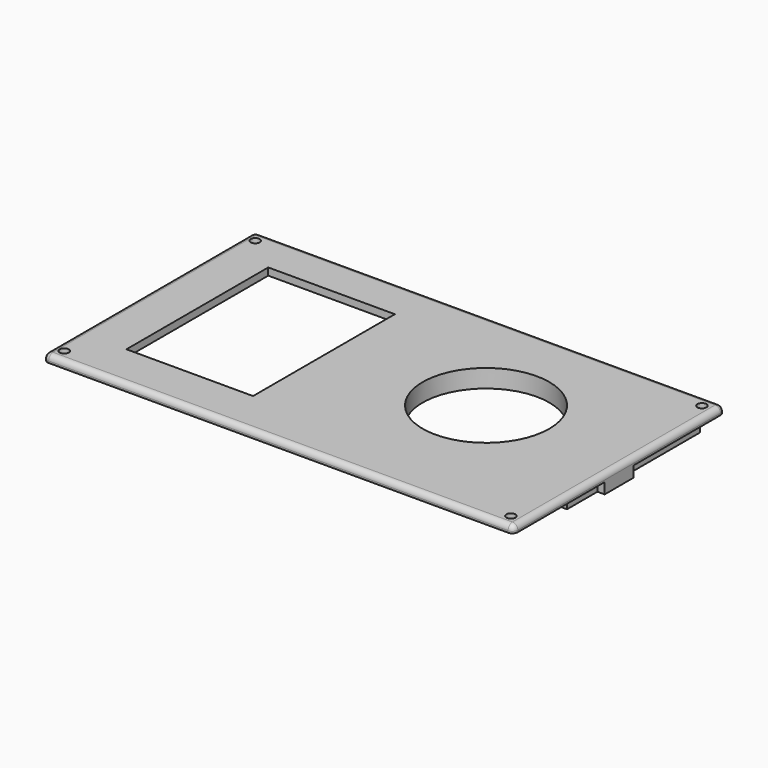
from build123d import *

# Parameters (mm, degrees)
BOX_W             = 130
BOX_H             = 73
BOX_DEPTH         = 2
BOX001_W          = 35
BOX001_H          = 49
BOX001_DEPTH      = 4
CYLINDER_R        = 17.5
CYLINDER_DEPTH    = 14
BOX002_W          = 63
BOX002_H          = 51
BOX002_DEPTH      = 3
CYLINDER001_R     = 17.5
CYLINDER001_DEPTH = 10
CYLINDER002_R     = 1.5
CYLINDER002_DEPTH = 3
CYLINDER003_R     = 1.5
CYLINDER003_DEPTH = 3
CYLINDER004_R     = 1.5
CYLINDER004_DEPTH = 3
CYLINDER005_R     = 1.5
CYLINDER005_DEPTH = 3
CYLINDER006_R     = 1.5
CYLINDER006_DEPTH = 3
CYLINDER007_R     = 1.5
CYLINDER007_DEPTH = 3
BOX003_W          = 2
BOX003_H          = 10
BOX003_DEPTH      = 3
BOX004_W          = 5
BOX004_H          = 5
BOX004_DEPTH      = 3
CYLINDER008_R     = 1.25
CYLINDER008_DEPTH = 2
CYLINDER009_R     = 1.25
CYLINDER009_DEPTH = 2
CYLINDER010_R     = 1.25
CYLINDER010_DEPTH = 2
CYLINDER011_R     = 1.25
CYLINDER011_DEPTH = 2
FILLET_R          = 1.5
FILLET001_R       = 1.5
FILLET002_R       = 1.5
FILLET003_R       = 1.5


with BuildPart() as part:
    # Box → Box (join)
    with BuildSketch(Plane.XY):
        with Locations((65, 36.5)):
            Rectangle(BOX_W, BOX_H)
    extrude(amount=BOX_DEPTH)

    # Box001 → Box001 (cut)
    with BuildSketch(Plane(origin=(13, 12.5, -2), x_dir=(1, 0, 0), z_dir=(0, 0, 1))):
        with Locations((17.5, 24.5)):
            Rectangle(BOX001_W, BOX001_H)
    extrude(amount=BOX001_DEPTH, mode=Mode.SUBTRACT)

    # Cylinder → Cylinder (cut)
    with BuildSketch(Plane(origin=(90, 40.5, -6), x_dir=(1, 0, 0), z_dir=(0, 0, 1))):
        Circle(CYLINDER_R)
    extrude(amount=CYLINDER_DEPTH, mode=Mode.SUBTRACT)

    # Box002 → Box002 (join)
    with BuildSketch(Plane(origin=(65, 21, -3), x_dir=(1, 0, 0), z_dir=(0, 0, 1))):
        with Locations((31.5, 25.5)):
            Rectangle(BOX002_W, BOX002_H)
    extrude(amount=BOX002_DEPTH)

    # Cylinder001 → Cylinder001 (cut)
    with BuildSketch(Plane(origin=(90, 40.5, -5), x_dir=(1, 0, 0), z_dir=(0, 0, 1))):
        Circle(CYLINDER001_R)
    extrude(amount=CYLINDER001_DEPTH, mode=Mode.SUBTRACT)

    # Cylinder002 → Cylinder002 (cut)
    with BuildSketch(Plane(origin=(106, 24.5, 0), x_dir=(1, 0, 0), z_dir=(0, 0, -1))):
        Circle(CYLINDER002_R)
    extrude(amount=CYLINDER002_DEPTH, mode=Mode.SUBTRACT)

    # Cylinder003 → Cylinder003 (cut)
    with BuildSketch(Plane(origin=(74, 24.5, 0), x_dir=(1, 0, 0), z_dir=(0, 0, -1))):
        Circle(CYLINDER003_R)
    extrude(amount=CYLINDER003_DEPTH, mode=Mode.SUBTRACT)

    # Cylinder004 → Cylinder004 (cut)
    with BuildSketch(Plane(origin=(74, 56.5, 0), x_dir=(1, 0, 0), z_dir=(0, 0, -1))):
        Circle(CYLINDER004_R)
    extrude(amount=CYLINDER004_DEPTH, mode=Mode.SUBTRACT)

    # Cylinder005 → Cylinder005 (cut)
    with BuildSketch(Plane(origin=(106, 56.5, 0), x_dir=(1, 0, 0), z_dir=(0, 0, -1))):
        Circle(CYLINDER005_R)
    extrude(amount=CYLINDER005_DEPTH, mode=Mode.SUBTRACT)

    # Cylinder006 → Cylinder006 (cut)
    with BuildSketch(Plane(origin=(116.5, 41.5, 0), x_dir=(1, 0, 0), z_dir=(0, 0, -1))):
        Circle(CYLINDER006_R)
    extrude(amount=CYLINDER006_DEPTH, mode=Mode.SUBTRACT)

    # Cylinder007 → Cylinder007 (cut)
    with BuildSketch(Plane(origin=(116.5, 31.5, 0), x_dir=(1, 0, 0), z_dir=(0, 0, -1))):
        Circle(CYLINDER007_R)
    extrude(amount=CYLINDER007_DEPTH, mode=Mode.SUBTRACT)

    # Box003 → Box003 (join)
    with BuildSketch(Plane(origin=(128, 41.5, 0), x_dir=(1, 0, 0), z_dir=(0, 0, -1))):
        with Locations((1, 5)):
            Rectangle(BOX003_W, BOX003_H)
    extrude(amount=BOX003_DEPTH)

    # Box004 → Box004 (cut)
    with BuildSketch(Plane(origin=(123, 67, -3), x_dir=(1, 0, 0), z_dir=(0, 0, 1))):
        with Locations((2.5, 2.5)):
            Rectangle(BOX004_W, BOX004_H)
    extrude(amount=BOX004_DEPTH, mode=Mode.SUBTRACT)

    # Cylinder008 → Cylinder008 (cut)
    with BuildSketch(Plane(origin=(3, 69.5, 0), x_dir=(1, 0, 0), z_dir=(0, 0, 1))):
        Circle(CYLINDER008_R)
    extrude(amount=CYLINDER008_DEPTH, mode=Mode.SUBTRACT)

    # Cylinder009 → Cylinder009 (cut)
    with BuildSketch(Plane(origin=(3, 3.5, 0), x_dir=(1, 0, 0), z_dir=(0, 0, 1))):
        Circle(CYLINDER009_R)
    extrude(amount=CYLINDER009_DEPTH, mode=Mode.SUBTRACT)

    # Cylinder010 → Cylinder010 (cut)
    with BuildSketch(Plane(origin=(126.5, 3.5, 0), x_dir=(1, 0, 0), z_dir=(0, 0, 1))):
        Circle(CYLINDER010_R)
    extrude(amount=CYLINDER010_DEPTH, mode=Mode.SUBTRACT)

    # Cylinder011 → Cylinder011 (cut)
    with BuildSketch(Plane(origin=(126.5, 69.5, 0), x_dir=(1, 0, 0), z_dir=(0, 0, 1))):
        Circle(CYLINDER011_R)
    extrude(amount=CYLINDER011_DEPTH, mode=Mode.SUBTRACT)

    # Fillet
    fillet_edges = [part.edges().sort_by_distance(p)[0] for p in [
        (65, 0, 2),
    ]]
    fillet(fillet_edges, radius=FILLET_R)

    # Fillet001
    fillet001_edges = [part.edges().sort_by_distance(p)[0] for p in [
        (130, 37.25, 2),
    ]]
    fillet(fillet001_edges, radius=FILLET001_R)

    # Fillet002
    fillet002_edges = [part.edges().sort_by_distance(p)[0] for p in [
        (64.25, 73, 2),
    ]]
    fillet(fillet002_edges, radius=FILLET002_R)

    # Fillet003
    fillet003_edges = [part.edges().sort_by_distance(p)[0] for p in [
        (0, 36.5, 2),
    ]]
    fillet(fillet003_edges, radius=FILLET003_R)


solid = part.part
